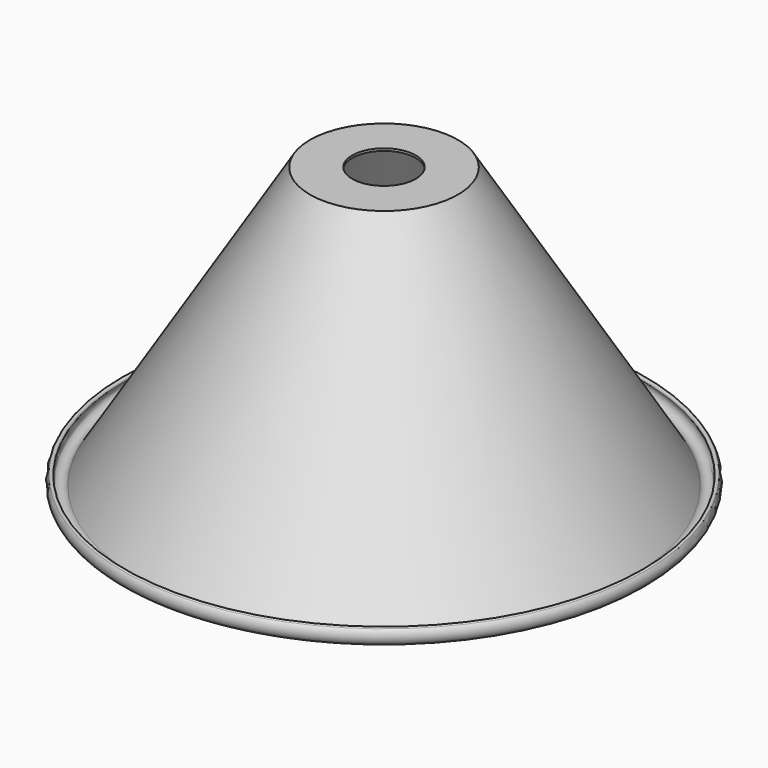
from build123d import *


with BuildPart() as f2:
    # F0 (on Front) → F2 (revolve)
    with BuildSketch(Plane.XZ):
        with BuildLine():
            Line((-19.338531, 76.678291), (-19.342692, 78.08991))
            Line((-19.342692, 78.08991), (-44.999805, 78.014287))
            Line((-44.999805, 78.014287), (-150.08643, -92.29619))
            ThreePointArc((-150.08643, -92.29619), (-156.170274, -93.58451), (-157.166759, -87.446111))
            ThreePointArc((-157.166759, -87.446111), (-157.477703, -85.826055), (-159.10089, -86.120218))
            ThreePointArc((-159.10089, -86.120218), (-157.504816, -95.312681), (-148.384364, -93.346415))
            Line((-148.384364, -93.346415), (-43.474068, 76.678291))
            Line((-43.474068, 76.678291), (-19.338531, 76.678291))
        make_face()
    revolve(axis=Axis((0, 0, -21.630358), (0, 0, -1)))


solid = f2.part
